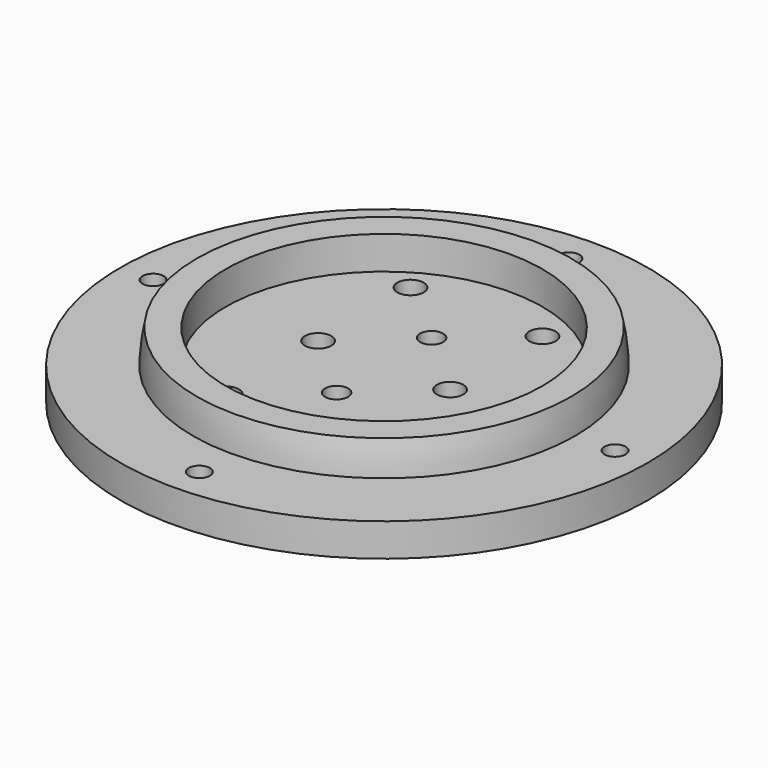
from build123d import *

# Parameters (mm, degrees)
CYLINDER033_R     = 1.6
CYLINDER033_DEPTH = 10
CYLINDER034_R     = 1.6
CYLINDER034_DEPTH = 10
CYLINDER035_R     = 1.6
CYLINDER035_DEPTH = 10
CYLINDER032_R     = 1.6
CYLINDER032_DEPTH = 10
CYLINDER026_R     = 2
CYLINDER026_DEPTH = 10
CYLINDER025_R     = 2
CYLINDER025_DEPTH = 10
CYLINDER028_R     = 1.75
CYLINDER028_DEPTH = 10
CYLINDER027_R     = 1.75
CYLINDER027_DEPTH = 10
CYLINDER019_R     = 2
CYLINDER019_DEPTH = 10
CYLINDER020_R     = 2
CYLINDER020_DEPTH = 10
CYLINDER021_R     = 2
CYLINDER021_DEPTH = 10
CYLINDER022_R     = 2
CYLINDER022_DEPTH = 10
CYLINDER024_R     = 24
CYLINDER024_DEPTH = 7
CYLINDER023_R     = 40
CYLINDER023_DEPTH = 5


with BuildPart() as obj1:
    # Cylinder033 → Cylinder033 (new body)
    with BuildSketch(Plane(origin=(40, 0, 65), x_dir=(1, 0, 0), z_dir=(0, 0, 1))):
        Circle(CYLINDER033_R)
    extrude(amount=CYLINDER033_DEPTH)


with BuildPart() as obj2:
    # Cylinder034 → Cylinder034 (new body)
    with BuildSketch(Plane(origin=(5, 35, 65), x_dir=(1, 0, 0), z_dir=(0, 0, 1))):
        Circle(CYLINDER034_R)
    extrude(amount=CYLINDER034_DEPTH)


with BuildPart() as obj3:
    # Cylinder035 → Cylinder035 (new body)
    with BuildSketch(Plane(origin=(5, -35, 65), x_dir=(1, 0, 0), z_dir=(0, 0, 1))):
        Circle(CYLINDER035_R)
    extrude(amount=CYLINDER035_DEPTH)


with BuildPart() as fusion013:
    # Cylinder032 → Cylinder032 (new body)
    with BuildSketch(Plane(origin=(-30, 0, 65), x_dir=(1, 0, 0), z_dir=(0, 0, 1))):
        Circle(CYLINDER032_R)
    extrude(amount=CYLINDER032_DEPTH)

    # Fusion013: union obj1, obj2, obj3
    add(obj1.part)
    add(obj2.part)
    add(obj3.part)


with BuildPart() as wirecut001:
    # Cylinder026 → Cylinder026 (new body)
    with BuildSketch(Plane(origin=(15, 0, 70), x_dir=(1, 0, 0), z_dir=(0, 0, 1))):
        Circle(CYLINDER026_R)
    extrude(amount=CYLINDER026_DEPTH)


with BuildPart() as wirecuts:
    # Cylinder025 → Cylinder025 (new body)
    with BuildSketch(Plane(origin=(-5, 0, 70), x_dir=(1, 0, 0), z_dir=(0, 0, 1))):
        Circle(CYLINDER025_R)
    extrude(amount=CYLINDER025_DEPTH)

    # Fusion008: union wireCUt001
    add(wirecut001.part)


with BuildPart() as m3cuts001:
    # Cylinder028 → Cylinder028 (new body)
    with BuildSketch(Plane(origin=(5, 9, 70), x_dir=(1, 0, 0), z_dir=(0, 0, 1))):
        Circle(CYLINDER028_R)
    extrude(amount=CYLINDER028_DEPTH)


with BuildPart() as m3cute:
    # Cylinder027 → Cylinder027 (new body)
    with BuildSketch(Plane(origin=(5, -9, 70), x_dir=(1, 0, 0), z_dir=(0, 0, 1))):
        Circle(CYLINDER027_R)
    extrude(amount=CYLINDER027_DEPTH)

    # Fusion009: union m3Cuts001
    add(m3cuts001.part)


with BuildPart() as cylinder019:
    # Cylinder019 → Cylinder019 (new body)
    with BuildSketch(Plane(origin=(0, -21, 0), x_dir=(1, 0, 0), z_dir=(0, 0, 1))):
        Circle(CYLINDER019_R)
    extrude(amount=CYLINDER019_DEPTH)


with BuildPart() as m3heatsetcuts:
    # Cylinder020 → Cylinder020 (new body)
    with BuildSketch(Plane(origin=(20, -21, 0), x_dir=(1, 0, 0), z_dir=(0, 0, 1))):
        Circle(CYLINDER020_R)
    extrude(amount=CYLINDER020_DEPTH)

    # Fusion005: union Cylinder019
    add(cylinder019.part)


with BuildPart() as m3heatsetcuts_1:
    # Fusion005 placement: moved
    add(m3heatsetcuts.part.moved(Location((-5, 38.5, 70))))


with BuildPart() as cylinder021:
    # Cylinder021 → Cylinder021 (new body)
    with BuildSketch(Plane(origin=(0, -21, 0), x_dir=(1, 0, 0), z_dir=(0, 0, 1))):
        Circle(CYLINDER021_R)
    extrude(amount=CYLINDER021_DEPTH)


with BuildPart() as basecuts:
    # Cylinder022 → Cylinder022 (new body)
    with BuildSketch(Plane(origin=(20, -21, 0), x_dir=(1, 0, 0), z_dir=(0, 0, 1))):
        Circle(CYLINDER022_R)
    extrude(amount=CYLINDER022_DEPTH)

    # Fusion006: union Cylinder021
    add(cylinder021.part)


with BuildPart() as basecuts_1:
    # Fusion006 placement: moved
    add(basecuts.part.moved(Location((-5, 3.5, 70))))

    # Fusion007: union m3HeatSetCuts
    add(m3heatsetcuts_1.part)

    # Fusion010: union wireCuts, m3Cute
    add(wirecuts.part)
    add(m3cute.part)


with BuildPart() as basecut:
    # Cylinder024 → Cylinder024 (new body)
    with BuildSketch(Plane(origin=(5, 0, 74), x_dir=(1, 0, 0), z_dir=(0, 0, 1))):
        Circle(CYLINDER024_R)
    extrude(amount=CYLINDER024_DEPTH)


with BuildPart() as cut001:
    # Sphere001 → Sphere001 (revolve)
    with BuildSketch(Plane(origin=(5, 0, 74), x_dir=(1, 0, 0), z_dir=(0, -1, 0))):
        with BuildLine():
            ThreePointArc((29, 0), (28.841135, 3.031325), (28.36628, 6.029439))
            Line((28.36628, 6.029439), (0, 6.029439))
            Line((0, 6.029439), (0, 0))
            Line((0, 0), (29, 0))
        make_face()
    revolve(axis=Axis((5, 0, 74), (0, 0, 1)))

    # Cut001: cut baseCut
    add(basecut.part, mode=Mode.SUBTRACT)


with BuildPart() as cut005:
    # Cylinder023 → Cylinder023 (new body)
    with BuildSketch(Plane(origin=(5, 0, 70), x_dir=(1, 0, 0), z_dir=(0, 0, 1))):
        Circle(CYLINDER023_R)
    extrude(amount=CYLINDER023_DEPTH)

    # Fusion011: union Cut001
    add(cut001.part)

    # Cut002: cut baseCUts
    add(basecuts_1.part, mode=Mode.SUBTRACT)

    # Cut005: cut Fusion013
    add(fusion013.part, mode=Mode.SUBTRACT)


solid = cut005.part
